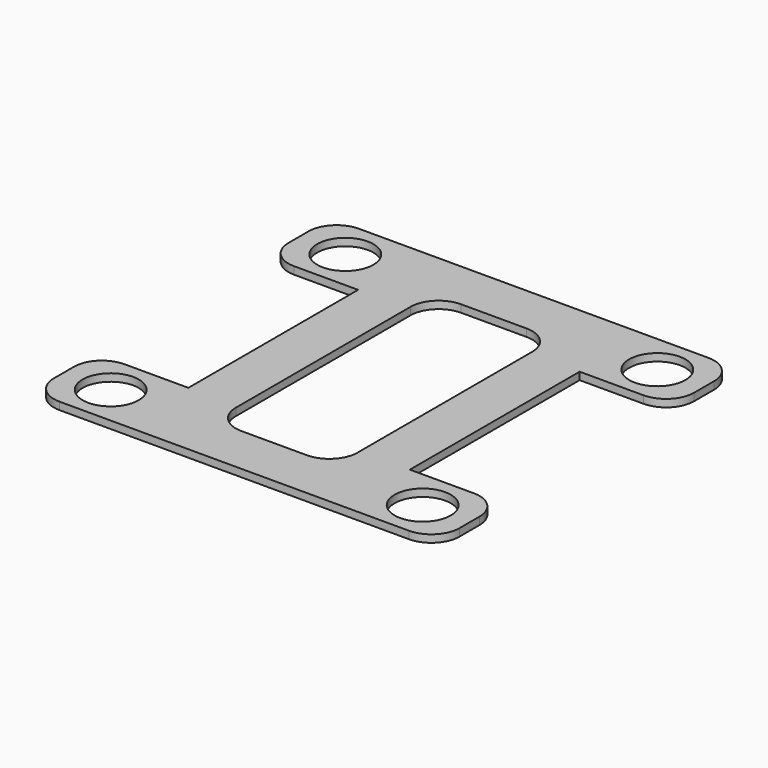
from build123d import *

# Parameters (mm, degrees)
F0_R     = 4.5
F0_W     = 8
F0_H     = 34
F1_DEPTH = 1.2


with BuildPart() as f1:
    # F0 (on Top) → F1 (new body)
    with BuildSketch(Plane.XY):
        with BuildLine():
            Line((17.75, 17), (17.75, 30))
            Line((17.75, 30), (-17.75, 30))
            Line((-17.75, 30), (-17.75, 17))
            Line((-17.75, 17), (-9.75, 17))
            Line((-9.75, 17), (-9.75, 17.5))
            ThreePointArc((-9.75, 17.5), (-8.431981, 20.681981), (-5.25, 22))
            Line((-5.25, 22), (5.25, 22))
            ThreePointArc((5.25, 22), (8.431981, 20.681981), (9.75, 17.5))
            Line((9.75, 17.5), (9.75, 17))
            Line((9.75, 17), (17.75, 17))
        make_face()
        with BuildLine():
            Line((28, 30), (17.75, 30))
            Line((17.75, 30), (17.75, 17))
            Line((17.75, 17), (28, 17))
            ThreePointArc((28, 17), (31.181981, 18.318019), (32.5, 21.5))
            Line((32.5, 21.5), (32.5, 25.5))
            ThreePointArc((32.5, 25.5), (31.181981, 28.681981), (28, 30))
        make_face()
        with Locations((25, 23.5)):
            Circle(F0_R, mode=Mode.SUBTRACT)
        with BuildLine():
            Line((-17.75, 17), (-17.75, 30))
            Line((-17.75, 30), (-28, 30))
            ThreePointArc((-28, 30), (-31.181981, 28.681981), (-32.5, 25.5))
            Line((-32.5, 25.5), (-32.5, 21.5))
            ThreePointArc((-32.5, 21.5), (-31.181981, 18.318019), (-28, 17))
            Line((-28, 17), (-17.75, 17))
        make_face()
        with Locations((-25, 23.5)):
            Circle(F0_R, mode=Mode.SUBTRACT)
        with Locations((13.75, 0)):
            Rectangle(F0_W, F0_H)
        with Locations((-13.75, 0)):
            Rectangle(F0_W, F0_H)
        with BuildLine():
            Line((28, -17), (17.75, -17))
            Line((17.75, -17), (17.75, -30))
            Line((17.75, -30), (28, -30))
            ThreePointArc((28, -30), (31.181981, -28.681981), (32.5, -25.5))
            Line((32.5, -25.5), (32.5, -21.5))
            ThreePointArc((32.5, -21.5), (31.181981, -18.318019), (28, -17))
        make_face()
        with Locations((25, -23.5)):
            Circle(F0_R, mode=Mode.SUBTRACT)
        with BuildLine():
            Line((17.75, -30), (17.75, -17))
            Line((17.75, -17), (9.75, -17))
            Line((9.75, -17), (9.75, -17.5))
            ThreePointArc((9.75, -17.5), (8.431981, -20.681981), (5.25, -22))
            Line((5.25, -22), (-5.25, -22))
            ThreePointArc((-5.25, -22), (-8.431981, -20.681981), (-9.75, -17.5))
            Line((-9.75, -17.5), (-9.75, -17))
            Line((-9.75, -17), (-17.75, -17))
            Line((-17.75, -17), (-17.75, -30))
            Line((-17.75, -30), (17.75, -30))
        make_face()
        with BuildLine():
            Line((-17.75, -30), (-17.75, -17))
            Line((-17.75, -17), (-28, -17))
            ThreePointArc((-28, -17), (-31.181981, -18.318019), (-32.5, -21.5))
            Line((-32.5, -21.5), (-32.5, -25.5))
            ThreePointArc((-32.5, -25.5), (-31.181981, -28.681981), (-28, -30))
            Line((-28, -30), (-17.75, -30))
        make_face()
        with Locations((-25, -23.5)):
            Circle(F0_R, mode=Mode.SUBTRACT)
    extrude(amount=F1_DEPTH)


solid = f1.part
